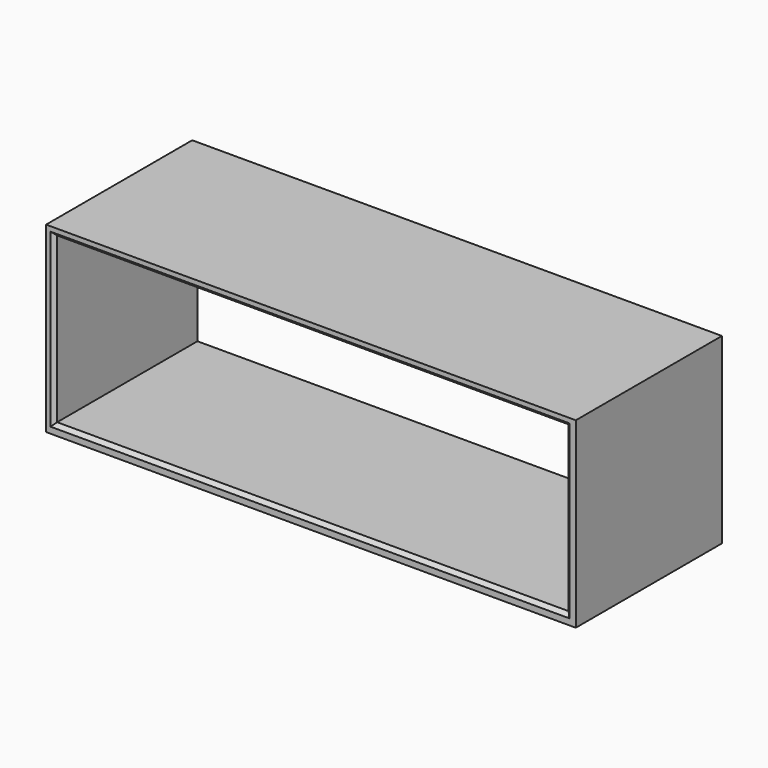
from build123d import *

# Parameters (mm, degrees)
F0_W     = 29
F0_H     = 10
F0_W_2   = 28
F0_H_2   = 9
F1_DEPTH = 10
F2_SIZE  = 0.2


with BuildPart() as f1:
    # F0 (on Front) → F1 (new body)
    with BuildSketch(Plane.XZ):
        with Locations((-8.569464, 10.20826)):
            Rectangle(F0_W, F0_H)
        with Locations((-8.623311, 10.247656)):
            Rectangle(F0_W_2, F0_H_2, mode=Mode.SUBTRACT)
    extrude(amount=F1_DEPTH)

    # F2
    f2_edges = [f1.edges().sort_by_distance(p)[0] for p in [
        (-8.623311, -10, 5.747656),
        (-8.623311, -10, 14.747656),
        (5.376689, -10, 10.247656),
        (-22.623311, -10, 10.247656),
        (-22.623311, 0, 10.247656),
        (-8.623311, 0, 14.747656),
        (-8.623311, 0, 5.747656),
        (5.376689, 0, 10.247656),
    ]]
    chamfer(f2_edges, length=F2_SIZE)


solid = f1.part
